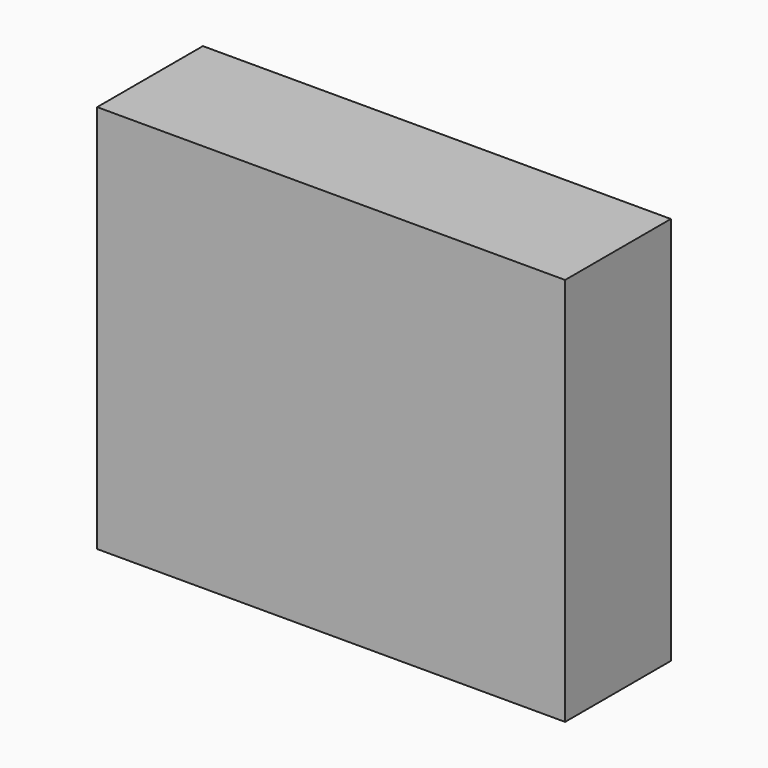
from build123d import *

# Parameters (mm, degrees)
F0_W     = 88.533432
F0_H     = 73.607959
F1_DEPTH = 25


with BuildPart() as f1:
    # F0 (on Front) → F1 (new body)
    with BuildSketch(Plane.XZ):
        with Locations((-1.5e-05, -4.418831)):
            Rectangle(F0_W, F0_H)
    extrude(amount=F1_DEPTH)


solid = f1.part
